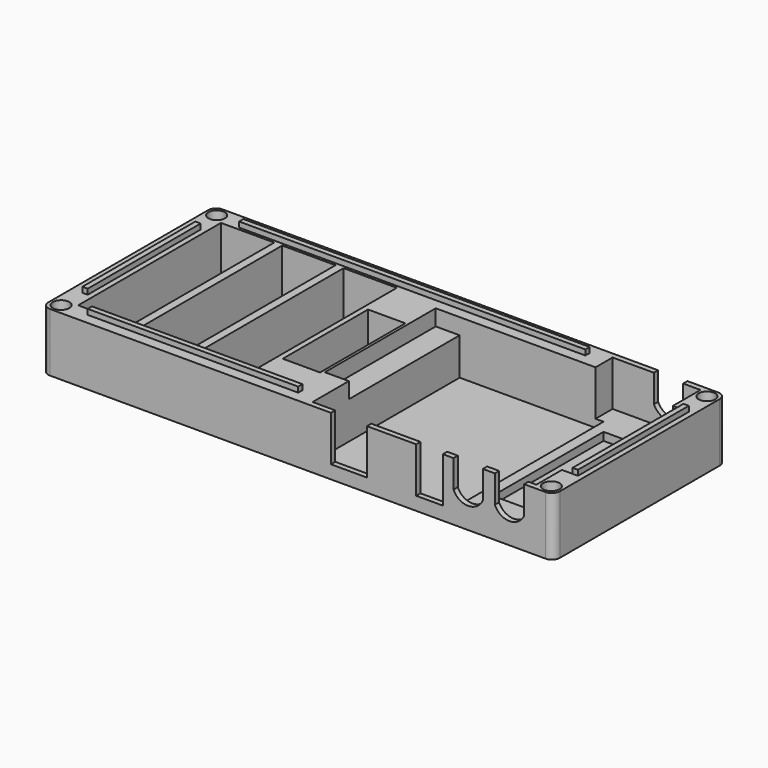
from build123d import *

# Parameters (mm, degrees)
BOX024_W                  = 130
BOX024_H                  = 2
BOX024_DEPTH              = 2
BOX025_W                  = 79
BOX025_H                  = 2
BOX025_DEPTH              = 2
BOX026_W                  = 2
BOX026_H                  = 52
BOX026_DEPTH              = 2
BOX023_W                  = 2
BOX023_H                  = 53
BOX023_DEPTH              = 2
BOX018_W                  = 0.5
BOX018_H                  = 2
BOX018_DEPTH              = 12
BOX019_W                  = 0.5
BOX019_H                  = 2
BOX019_DEPTH              = 12
BOX020_W                  = 0.5
BOX020_H                  = 2
BOX020_DEPTH              = 12
BOX021_W                  = 0.5
BOX021_H                  = 2
BOX021_DEPTH              = 12
BOX022_W                  = 0.5
BOX022_H                  = 2
BOX022_DEPTH              = 12
BOX017_W                  = 0.5
BOX017_H                  = 2
BOX017_DEPTH              = 12
BOX015_W                  = 12
BOX015_H                  = 10
BOX015_DEPTH              = 20
BOX016_W                  = 12
BOX016_H                  = 10
BOX016_DEPTH              = 20
BOX014_W                  = 12
BOX014_H                  = 10
BOX014_DEPTH              = 20
CYLINDER016_R             = 7
CYLINDER016_DEPTH         = 1.5
CYLINDER015_R             = 6
CYLINDER015_DEPTH         = 18
FUSION006_PLACEMENT_ANGLE = 90
CYLINDER018_R             = 7
CYLINDER018_DEPTH         = 1.5
CYLINDER017_R             = 6
CYLINDER017_DEPTH         = 18
FUSION007_PLACEMENT_ANGLE = 90
CYLINDER014_R             = 7
CYLINDER014_DEPTH         = 1.5
CYLINDER013_R             = 6
CYLINDER013_DEPTH         = 18
FUSION005_PLACEMENT_ANGLE = 90
BOX013_W                  = 33
BOX013_H                  = 77
BOX013_DEPTH              = 17
BOX012_W                  = 10
BOX012_H                  = 11
BOX012_DEPTH              = 21
BOX011_W                  = 13.5
BOX011_H                  = 11
BOX011_DEPTH              = 21
CYLINDER010_R             = 3.1
CYLINDER010_DEPTH         = 20
CYLINDER011_R             = 3.1
CYLINDER011_DEPTH         = 20
CYLINDER012_R             = 3.1
CYLINDER012_DEPTH         = 20
BOX004_W                  = 20
BOX004_H                  = 67
BOX004_DEPTH              = 20
BOX005_W                  = 20
BOX005_H                  = 67
BOX005_DEPTH              = 20
BOX006_W                  = 20
BOX006_H                  = 67
BOX006_DEPTH              = 20
BOX007_W                  = 14
BOX007_H                  = 40
BOX007_DEPTH              = 20
BOX008_W                  = 54
BOX008_H                  = 69
BOX008_DEPTH              = 20
BOX009_W                  = 30
BOX009_H                  = 52
BOX009_DEPTH              = 20
BOX010_W                  = 72
BOX010_H                  = 52
BOX010_DEPTH              = 6
CYLINDER009_R             = 3.1
CYLINDER009_DEPTH         = 20
BOX_W                     = 192
BOX_H                     = 81
BOX_DEPTH                 = 22
FILLET_R                  = 3


with BuildPart() as cube011:
    # Box024 → Box024 (new body)
    with BuildSketch(Plane(origin=(12, 75, 21), x_dir=(1, 0, 0), z_dir=(0, 0, 1))):
        with Locations((65, 1)):
            Rectangle(BOX024_W, BOX024_H)
    extrude(amount=BOX024_DEPTH)


with BuildPart() as cube012:
    # Box025 → Box025 (new body)
    with BuildSketch(Plane(origin=(12, 4, 21), x_dir=(1, 0, 0), z_dir=(0, 0, 1))):
        with Locations((39.5, 1)):
            Rectangle(BOX025_W, BOX025_H)
    extrude(amount=BOX025_DEPTH)


with BuildPart() as cube013:
    # Box026 → Box026 (new body)
    with BuildSketch(Plane(origin=(186, 14, 21), x_dir=(1, 0, 0), z_dir=(0, 0, 1))):
        with Locations((1, 26)):
            Rectangle(BOX026_W, BOX026_H)
    extrude(amount=BOX026_DEPTH)


with BuildPart() as latches:
    # Box023 → Box023 (new body)
    with BuildSketch(Plane(origin=(2, 14, 21), x_dir=(1, 0, 0), z_dir=(0, 0, 1))):
        with Locations((1, 26.5)):
            Rectangle(BOX023_W, BOX023_H)
    extrude(amount=BOX023_DEPTH)

    # Compound: union Cube011, Cube012, Cube013
    add(cube011.part)
    add(cube012.part)
    add(cube013.part)


with BuildPart() as cube005:
    # Box018 → Box018 (new body)
    with BuildSketch(Plane(origin=(163.5, 0, 9), x_dir=(1, 0, 0), z_dir=(0, 0, 1))):
        with Locations((0.25, 1)):
            Rectangle(BOX018_W, BOX018_H)
    extrude(amount=BOX018_DEPTH)


with BuildPart() as cube006:
    # Box019 → Box019 (new body)
    with BuildSketch(Plane(origin=(167.5, 0, 9), x_dir=(1, 0, 0), z_dir=(0, 0, 1))):
        with Locations((0.25, 1)):
            Rectangle(BOX019_W, BOX019_H)
    extrude(amount=BOX019_DEPTH)


with BuildPart() as cube007:
    # Box020 → Box020 (new body)
    with BuildSketch(Plane(origin=(179, 0, 9), x_dir=(1, 0, 0), z_dir=(0, 0, 1))):
        with Locations((0.25, 1)):
            Rectangle(BOX020_W, BOX020_H)
    extrude(amount=BOX020_DEPTH)


with BuildPart() as cube008:
    # Box021 → Box021 (new body)
    with BuildSketch(Plane(origin=(175.5, 79, 9), x_dir=(1, 0, 0), z_dir=(0, 0, 1))):
        with Locations((0.25, 1)):
            Rectangle(BOX021_W, BOX021_H)
    extrude(amount=BOX021_DEPTH)


with BuildPart() as cube009:
    # Box022 → Box022 (new body)
    with BuildSketch(Plane(origin=(164, 79, 9), x_dir=(1, 0, 0), z_dir=(0, 0, 1))):
        with Locations((0.25, 1)):
            Rectangle(BOX022_W, BOX022_H)
    extrude(amount=BOX022_DEPTH)


with BuildPart() as obj1:
    # Box017 → Box017 (new body)
    with BuildSketch(Plane(origin=(152, 0, 9), x_dir=(1, 0, 0), z_dir=(0, 0, 1))):
        with Locations((0.25, 1)):
            Rectangle(BOX017_W, BOX017_H)
    extrude(amount=BOX017_DEPTH)

    # Fusion010: union Cube005, Cube006, Cube007, Cube008, Cube009
    add(cube005.part)
    add(cube006.part)
    add(cube007.part)
    add(cube008.part)
    add(cube009.part)


with BuildPart() as cube002:
    # Box015 → Box015 (new body)
    with BuildSketch(Plane(origin=(167.5, 0, 13), x_dir=(1, 0, 0), z_dir=(0, 0, 1))):
        with Locations((6, 5)):
            Rectangle(BOX015_W, BOX015_H)
    extrude(amount=BOX015_DEPTH)


with BuildPart() as cube003:
    # Box016 → Box016 (new body)
    with BuildSketch(Plane(origin=(164, 71, 13), x_dir=(1, 0, 0), z_dir=(0, 0, 1))):
        with Locations((6, 5)):
            Rectangle(BOX016_W, BOX016_H)
    extrude(amount=BOX016_DEPTH)


with BuildPart() as fusion009:
    # Box014 → Box014 (new body)
    with BuildSketch(Plane(origin=(152, 0, 13), x_dir=(1, 0, 0), z_dir=(0, 0, 1))):
        with Locations((6, 5)):
            Rectangle(BOX014_W, BOX014_H)
    extrude(amount=BOX014_DEPTH)

    # Fusion009: union Cube002, Cube003
    add(cube002.part)
    add(cube003.part)


with BuildPart() as cylinder016:
    # Cylinder016 → Cylinder016 (new body)
    with BuildSketch(Plane.XY):
        Circle(CYLINDER016_R)
    extrude(amount=CYLINDER016_DEPTH)


with BuildPart() as fusion006:
    # Cylinder015 → Cylinder015 (new body)
    with BuildSketch(Plane.XY):
        Circle(CYLINDER015_R)
    extrude(amount=CYLINDER015_DEPTH)

    # Fusion006: union Cylinder016
    add(cylinder016.part)


with BuildPart() as fusion006_1:
    # Fusion006 placement: moved
    add(fusion006.part.moved(Location((158, -2, 13))).rotate(Axis((158, -2, 13), (-1, 0, 0)), FUSION006_PLACEMENT_ANGLE))


with BuildPart() as cylinder018:
    # Cylinder018 → Cylinder018 (new body)
    with BuildSketch(Plane.XY):
        Circle(CYLINDER018_R)
    extrude(amount=CYLINDER018_DEPTH)


with BuildPart() as fusion007:
    # Cylinder017 → Cylinder017 (new body)
    with BuildSketch(Plane.XY):
        Circle(CYLINDER017_R)
    extrude(amount=CYLINDER017_DEPTH)

    # Fusion007: union Cylinder018
    add(cylinder018.part)


with BuildPart() as fusion007_1:
    # Fusion007 placement: moved
    add(fusion007.part.moved(Location((170, 82.5, 13))).rotate(Axis((170, 82.5, 13), (1, 0, 0)), FUSION007_PLACEMENT_ANGLE))


with BuildPart() as cylinder014:
    # Cylinder014 → Cylinder014 (new body)
    with BuildSketch(Plane.XY):
        Circle(CYLINDER014_R)
    extrude(amount=CYLINDER014_DEPTH)


with BuildPart() as dc_jack_holes:
    # Cylinder013 → Cylinder013 (new body)
    with BuildSketch(Plane.XY):
        Circle(CYLINDER013_R)
    extrude(amount=CYLINDER013_DEPTH)

    # Fusion005: union Cylinder014
    add(cylinder014.part)


with BuildPart() as dc_jack_holes_1:
    # Fusion005 placement: moved
    add(dc_jack_holes.part.moved(Location((173.5, -2, 13))).rotate(Axis((173.5, -2, 13), (-1, 0, 0)), FUSION005_PLACEMENT_ANGLE))

    # Fusion008: union Fusion006, Fusion007
    add(fusion006_1.part)
    add(fusion007_1.part)


with BuildPart() as cube:
    # Box013 → Box013 (new body)
    with BuildSketch(Plane(origin=(149, 2, 4), x_dir=(1, 0, 0), z_dir=(0, 0, 1))):
        with Locations((16.5, 38.5)):
            Rectangle(BOX013_W, BOX013_H)
    extrude(amount=BOX013_DEPTH)


with BuildPart() as obj2:
    # Box012 → Box012 (new body)
    with BuildSketch(Plane(origin=(138.5, -1, 4), x_dir=(1, 0, 0), z_dir=(0, 0, 1))):
        with Locations((5, 5.5)):
            Rectangle(BOX012_W, BOX012_H)
    extrude(amount=BOX012_DEPTH)


with BuildPart() as arduino_jacks_holes:
    # Box011 → Box011 (new body)
    with BuildSketch(Plane(origin=(106.5, -1, 4), x_dir=(1, 0, 0), z_dir=(0, 0, 1))):
        with Locations((6.75, 5.5)):
            Rectangle(BOX011_W, BOX011_H)
    extrude(amount=BOX011_DEPTH)

    # Fusion004: union obj2
    add(obj2.part)


with BuildPart() as m4_mounting_hole001:
    # Cylinder010 → Cylinder010 (new body)
    with BuildSketch(Plane(origin=(2, 77, 1), x_dir=(1, 0, 0), z_dir=(0, 0, 1))):
        Circle(CYLINDER010_R)
    extrude(amount=CYLINDER010_DEPTH)


with BuildPart() as m4_mounting_hole002:
    # Cylinder011 → Cylinder011 (new body)
    with BuildSketch(Plane(origin=(186, 77, 1), x_dir=(1, 0, 0), z_dir=(0, 0, 1))):
        Circle(CYLINDER011_R)
    extrude(amount=CYLINDER011_DEPTH)


with BuildPart() as m4_mounting_hole003:
    # Cylinder012 → Cylinder012 (new body)
    with BuildSketch(Plane(origin=(186, 4, 1), x_dir=(1, 0, 0), z_dir=(0, 0, 1))):
        Circle(CYLINDER012_R)
    extrude(amount=CYLINDER012_DEPTH)


with BuildPart() as obj3:
    # Box004 → Box004 (new body)
    with BuildSketch(Plane(origin=(6, 7, 1), x_dir=(1, 0, 0), z_dir=(0, 0, 1))):
        with Locations((10, 33.5)):
            Rectangle(BOX004_W, BOX004_H)
    extrude(amount=BOX004_DEPTH)


with BuildPart() as obj4:
    # Box005 → Box005 (new body)
    with BuildSketch(Plane(origin=(29, 7, 1), x_dir=(1, 0, 0), z_dir=(0, 0, 1))):
        with Locations((10, 33.5)):
            Rectangle(BOX005_W, BOX005_H)
    extrude(amount=BOX005_DEPTH)


with BuildPart() as obj5:
    # Box006 → Box006 (new body)
    with BuildSketch(Plane(origin=(52, 7, 1), x_dir=(1, 0, 0), z_dir=(0, 0, 1))):
        with Locations((10, 33.5)):
            Rectangle(BOX006_W, BOX006_H)
    extrude(amount=BOX006_DEPTH)


with BuildPart() as obj6:
    # Box007 → Box007 (new body)
    with BuildSketch(Plane(origin=(74, 18, 1), x_dir=(1, 0, 0), z_dir=(0, 0, 1))):
        with Locations((7, 20)):
            Rectangle(BOX007_W, BOX007_H)
    extrude(amount=BOX007_DEPTH)


with BuildPart() as obj7:
    # Box008 → Box008 (new body)
    with BuildSketch(Plane(origin=(98, 2, 1), x_dir=(1, 0, 0), z_dir=(0, 0, 1))):
        with Locations((27, 34.5)):
            Rectangle(BOX008_W, BOX008_H)
    extrude(amount=BOX008_DEPTH)


with BuildPart() as obj8:
    # Box009 → Box009 (new body)
    with BuildSketch(Plane(origin=(156, 14, 1), x_dir=(1, 0, 0), z_dir=(0, 0, 1))):
        with Locations((15, 26)):
            Rectangle(BOX009_W, BOX009_H)
    extrude(amount=BOX009_DEPTH)


with BuildPart() as obj9:
    # Box010 → Box010 (new body)
    with BuildSketch(Plane(origin=(89, 19, 15), x_dir=(1, 0, 0), z_dir=(0, 0, 1))):
        with Locations((36, 26)):
            Rectangle(BOX010_W, BOX010_H)
    extrude(amount=BOX010_DEPTH)


with BuildPart() as obj10:
    # Cylinder009 → Cylinder009 (new body)
    with BuildSketch(Plane(origin=(2, 4, 1), x_dir=(1, 0, 0), z_dir=(0, 0, 1))):
        Circle(CYLINDER009_R)
    extrude(amount=CYLINDER009_DEPTH)

    # Fusion003: union M4 Mounting Hole001, M4 Mounting Hole002, M4 Mounting Hole003, obj3, obj4, obj5, obj6, obj7, obj8, obj9
    add(m4_mounting_hole001.part)
    add(m4_mounting_hole002.part)
    add(m4_mounting_hole003.part)
    add(obj3.part)
    add(obj4.part)
    add(obj5.part)
    add(obj6.part)
    add(obj7.part)
    add(obj8.part)
    add(obj9.part)


with BuildPart() as body:
    # Box → Box (new body)
    with BuildSketch(Plane(origin=(-2, 0, -1), x_dir=(1, 0, 0), z_dir=(0, 0, 1))):
        with Locations((96, 40.5)):
            Rectangle(BOX_W, BOX_H)
    extrude(amount=BOX_DEPTH)

    # Cut: cut obj10
    add(obj10.part, mode=Mode.SUBTRACT)

    # Cut001: cut Arduino Jacks Holes
    add(arduino_jacks_holes.part, mode=Mode.SUBTRACT)

    # Cut002: cut Cube
    add(cube.part, mode=Mode.SUBTRACT)

    # Cut003: cut DC_Jack_Holes
    add(dc_jack_holes_1.part, mode=Mode.SUBTRACT)

    # Cut004: cut Fusion009
    add(fusion009.part, mode=Mode.SUBTRACT)

    # Fillet
    fillet_edges = [body.edges().sort_by_distance(p)[0] for p in [
        (-2, 0, 10),
        (-2, 81, 10),
        (190, 0, 10),
        (190, 81, 10),
    ]]
    fillet(fillet_edges, radius=FILLET_R)

    # Fusion011: union obj1
    add(obj1.part)

    # Fusion012: union Latches
    add(latches.part)


solid = body.part
